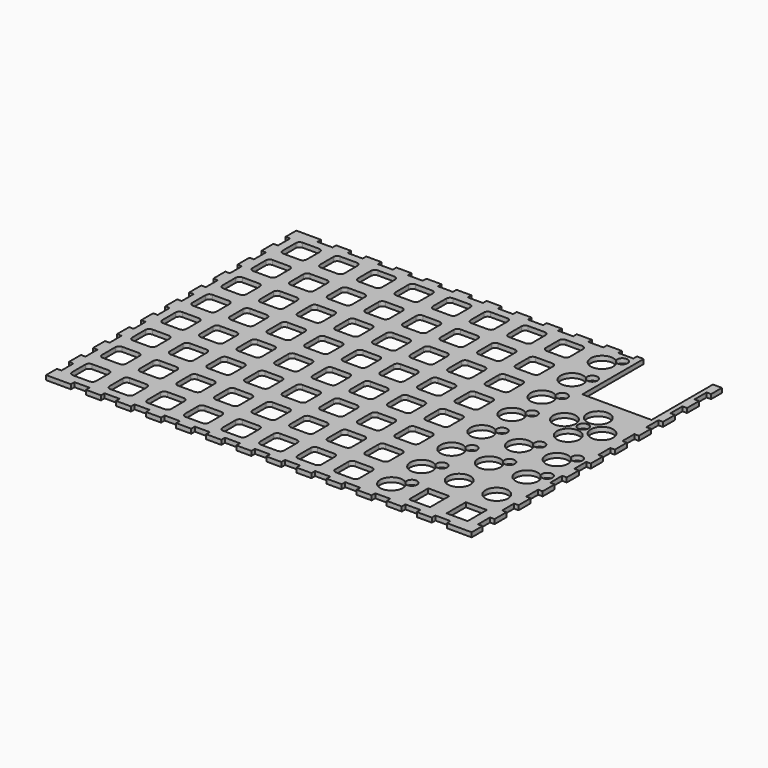
from build123d import *

# Parameters (mm, degrees)
CYLINDER008_R     = 7.5
CYLINDER008_DEPTH = 10
ARRAY010_COUNT    = 4
CYLINDER007_R     = 3.5
CYLINDER007_DEPTH = 10
BOX011_W          = 50
BOX011_H          = 50
BOX011_DEPTH      = 3
BOX022_W          = 10
BOX022_H          = 3
BOX022_DEPTH      = 10
ARRAY016_X_COUNT  = 13
ARRAY016_X_PITCH  = 20
BOX017_W          = 283
BOX017_H          = 4
BOX017_DEPTH      = 3
BOX024_W          = 10
BOX024_H          = 3
BOX024_DEPTH      = 3
ARRAY017_X_COUNT  = 11
ARRAY017_X_PITCH  = 20
BOX018_W          = 231
BOX018_H          = 4
BOX018_DEPTH      = 3
CYLINDER006_R     = 7.5
CYLINDER006_DEPTH = 10
BOX010_W          = 25
BOX010_H          = 25
BOX010_DEPTH      = 3
ARRAY009_X_COUNT  = 2
ARRAY009_X_PITCH  = 25
SKETCH002_W       = 25
SKETCH002_H       = 25
PAD001_DEPTH      = 3
ARRAY008_X_COUNT  = 8
ARRAY008_X_PITCH  = 25
ARRAY008_Y_COUNT  = 8
ARRAY008_Y_PITCH  = 25
CYLINDER010_R     = 7.5
CYLINDER010_DEPTH = 10
CYLINDER011_R     = 3.5
CYLINDER011_DEPTH = 10
BOX019_W          = 25
BOX019_H          = 25
BOX019_DEPTH      = 3
ARRAY012_Y_COUNT  = 8
ARRAY012_Y_PITCH  = 25
ARRAY013_X_COUNT  = 2
ARRAY013_X_PITCH  = 25
ARRAY013_Y_COUNT  = 2
ARRAY013_Y_PITCH  = 25
BOX021_W          = 3
BOX021_H          = 10
BOX021_DEPTH      = 10
ARRAY015_Y_COUNT  = 10
ARRAY015_Y_PITCH  = 20
BOX015_W          = 4
BOX015_H          = 200
BOX015_DEPTH      = 3
BOX020_W          = 14
BOX020_H          = 16
BOX020_DEPTH      = 10
BOX012_W          = 25
BOX012_H          = 25
BOX012_DEPTH      = 3
ARRAY014_X_COUNT  = 2
ARRAY014_X_PITCH  = 25
BOX023_W          = 6
BOX023_H          = 4
BOX023_DEPTH      = 3
BOX014_W          = 46
BOX014_H          = 47
BOX014_DEPTH      = 10
BOX013_W          = 50
BOX013_H          = 50
BOX013_DEPTH      = 3


with BuildPart() as array010:
    # Cylinder008 → Cylinder008 (new body)
    with BuildSketch(Plane(origin=(250, 112.5, 0), x_dir=(1, 0, 0), z_dir=(0, 0, 1))):
        Circle(CYLINDER008_R)
    extrude(amount=CYLINDER008_DEPTH)

    # Array010: Array010 ×4 about axis
    array010_axis = Axis((250, 125, 0), (0, 0, 1))


with BuildPart() as array010_1:
    add(array010.part)
    for i in range(1, ARRAY010_COUNT):
        add(array010.part.rotate(array010_axis, i * 360 / ARRAY010_COUNT))


with BuildPart() as cylinder007:
    # Cylinder007 → Cylinder007 (new body)
    with BuildSketch(Plane(origin=(250, 125, 0), x_dir=(1, 0, 0), z_dir=(0, 0, 1))):
        Circle(CYLINDER007_R)
    extrude(amount=CYLINDER007_DEPTH)


with BuildPart() as cut009:
    # Box011 → Box011 (new body)
    with BuildSketch(Plane(origin=(225, 100, 0), x_dir=(1, 0, 0), z_dir=(0, 0, 1))):
        with Locations((25, 25)):
            Rectangle(BOX011_W, BOX011_H)
    extrude(amount=BOX011_DEPTH)

    # Cut008: cut Cylinder007
    add(cylinder007.part, mode=Mode.SUBTRACT)

    # Cut009: cut Array010
    add(array010_1.part, mode=Mode.SUBTRACT)


with BuildPart() as array016:
    # Box022 → Box022 (new body)
    with BuildSketch(Plane(origin=(12.5, -4, 0), x_dir=(1, 0, 0), z_dir=(0, 0, 1))):
        with Locations((5, 1.5)):
            Rectangle(BOX022_W, BOX022_H)
    extrude(amount=BOX022_DEPTH)

    # Array016 X: Array016 ×13


with BuildPart() as array016_1:
    add(array016.part)
    with Locations(*[(i * ARRAY016_X_PITCH, 0, 0) for i in range(1, ARRAY016_X_COUNT)]):
        add(array016.part)


with BuildPart() as cut016:
    # Box017 → Box017 (new body)
    with BuildSketch(Plane(origin=(-4, -4, 0), x_dir=(1, 0, 0), z_dir=(0, 0, 1))):
        with Locations((141.5, 2)):
            Rectangle(BOX017_W, BOX017_H)
    extrude(amount=BOX017_DEPTH)

    # Cut016: cut Array016
    add(array016_1.part, mode=Mode.SUBTRACT)


with BuildPart() as array017:
    # Box024 → Box024 (new body)
    with BuildSketch(Plane(origin=(12.5, 201, 0), x_dir=(1, 0, 0), z_dir=(0, 0, 1))):
        with Locations((5, 1.5)):
            Rectangle(BOX024_W, BOX024_H)
    extrude(amount=BOX024_DEPTH)

    # Array017 X: Array017 ×11


with BuildPart() as array017_1:
    add(array017.part)
    with Locations(*[(i * ARRAY017_X_PITCH, 0, 0) for i in range(1, ARRAY017_X_COUNT)]):
        add(array017.part)


with BuildPart() as cut017:
    # Box018 → Box018 (new body)
    with BuildSketch(Plane(origin=(-4, 200, 0), x_dir=(1, 0, 0), z_dir=(0, 0, 1))):
        with Locations((115.5, 2)):
            Rectangle(BOX018_W, BOX018_H)
    extrude(amount=BOX018_DEPTH)

    # Cut017: cut Array017
    add(array017_1.part, mode=Mode.SUBTRACT)


with BuildPart() as cylinder006:
    # Cylinder006 → Cylinder006 (new body)
    with BuildSketch(Plane(origin=(237.5, 37.5, 0), x_dir=(1, 0, 0), z_dir=(0, 0, 1))):
        Circle(CYLINDER006_R)
    extrude(amount=CYLINDER006_DEPTH)


with BuildPart() as array009:
    # Box010 → Box010 (new body)
    with BuildSketch(Plane(origin=(225, 25, 0), x_dir=(1, 0, 0), z_dir=(0, 0, 1))):
        with Locations((12.5, 12.5)):
            Rectangle(BOX010_W, BOX010_H)
    extrude(amount=BOX010_DEPTH)

    # Cut007: cut Cylinder006
    add(cylinder006.part, mode=Mode.SUBTRACT)

    # Array009 X: Array009 ×2


with BuildPart() as array009_1:
    add(array009.part)
    with Locations(*[(i * ARRAY009_X_PITCH, 0, 0) for i in range(1, ARRAY009_X_COUNT)]):
        add(array009.part)


with BuildPart() as clone_of_array009:
    # Clone009 base: copy of Array009
    add(array009_1.part)


with BuildPart() as fusion012:
    # Fusion012 base: copy of Array009
    add(array009_1.part)

    # Fusion012: union Clone of Array009
    add(clone_of_array009.part)


with BuildPart() as array008:
    # Sketch002 → Pad001 (new body)
    with BuildSketch(Plane.XY):
        with Locations((12.5, 12.5)):
            Rectangle(SKETCH002_W, SKETCH002_H)
        with BuildLine():
            Line((4.5, 18), (4.5, 7))
            ThreePointArc((4.5, 7), (5.232233, 5.232233), (7, 4.5))
            Line((7, 4.5), (18, 4.5))
            ThreePointArc((18, 4.5), (19.767767, 5.232233), (20.5, 7))
            Line((20.5, 18), (20.5, 7))
            ThreePointArc((20.5, 18), (19.767767, 19.767767), (18, 20.5))
            Line((18, 20.5), (7, 20.5))
            ThreePointArc((7, 20.5), (5.232233, 19.767767), (4.5, 18))
        make_face(mode=Mode.SUBTRACT)
    extrude(amount=PAD001_DEPTH)

    # Array008 X: Array008 ×8


with BuildPart() as array008_1:
    add(array008.part)
    with Locations(*[(i * ARRAY008_X_PITCH, 0, 0) for i in range(1, ARRAY008_X_COUNT)]):
        add(array008.part)

    # Array008 Y: Array008 ×8


with BuildPart() as array008_2:
    add(array008_1.part)
    with Locations(*[(0, i * ARRAY008_Y_PITCH, 0) for i in range(1, ARRAY008_Y_COUNT)]):
        add(array008_1.part)


with BuildPart() as clone_of_array008:
    # Clone008 base: copy of Array008
    add(array008_2.part)


with BuildPart() as fusion011:
    # Fusion011 base: copy of Array008
    add(array008_2.part)

    # Fusion011: union Clone of Array008
    add(clone_of_array008.part)


with BuildPart() as cylinder010:
    # Cylinder010 → Cylinder010 (new body)
    with BuildSketch(Plane(origin=(212.5, 12.5, -5), x_dir=(1, 0, 0), z_dir=(0, 0, 1))):
        Circle(CYLINDER010_R)
    extrude(amount=CYLINDER010_DEPTH)


with BuildPart() as cylinder011:
    # Cylinder011 → Cylinder011 (new body)
    with BuildSketch(Plane(origin=(220, 20, -5), x_dir=(1, 0, 0), z_dir=(0, 0, 1))):
        Circle(CYLINDER011_R)
    extrude(amount=CYLINDER011_DEPTH)


with BuildPart() as cut013:
    # Box019 → Box019 (new body)
    with BuildSketch(Plane(origin=(200, 0, 0), x_dir=(1, 0, 0), z_dir=(0, 0, 1))):
        with Locations((12.5, 12.5)):
            Rectangle(BOX019_W, BOX019_H)
    extrude(amount=BOX019_DEPTH)

    # Cut012: cut Cylinder011
    add(cylinder011.part, mode=Mode.SUBTRACT)

    # Cut013: cut Cylinder010
    add(cylinder010.part, mode=Mode.SUBTRACT)


with BuildPart() as array012:
    # Array012 base: copy of Cut013
    add(cut013.part)

    # Array012 Y: Array012 ×8


with BuildPart() as array012_1:
    add(array012.part)
    with Locations(*[(0, i * ARRAY012_Y_PITCH, 0) for i in range(1, ARRAY012_Y_COUNT)]):
        add(array012.part)


with BuildPart() as clone_of_array011:
    # Clone012 base: copy of Array012
    add(array012_1.part)


with BuildPart() as array013:
    # Clone011 base: copy of Cut013
    add(cut013.part)


with BuildPart() as array013_1:
    # Clone011 placement: moved
    add(array013.part.moved(Location((25, 50, 0))))

    # Array013 X: Array013 ×2


with BuildPart() as array013_2:
    add(array013_1.part)
    with Locations(*[(i * ARRAY013_X_PITCH, 0, 0) for i in range(1, ARRAY013_X_COUNT)]):
        add(array013_1.part)

    # Array013 Y: Array013 ×2


with BuildPart() as array013_3:
    add(array013_2.part)
    with Locations(*[(0, i * ARRAY013_Y_PITCH, 0) for i in range(1, ARRAY013_Y_COUNT)]):
        add(array013_2.part)


with BuildPart() as clone_of_array012:
    # Clone013 base: copy of Array013
    add(array013_3.part)


with BuildPart() as fusion014:
    # Fusion014 base: copy of Array012
    add(array012_1.part)

    # Fusion014: union Clone of Array011, Array013, Clone of Array012
    add(clone_of_array011.part)
    add(array013_3.part)
    add(clone_of_array012.part)


with BuildPart() as array015:
    # Box021 → Box021 (new body)
    with BuildSketch(Plane(origin=(-4, 5, 0), x_dir=(1, 0, 0), z_dir=(0, 0, 1))):
        with Locations((1.5, 5)):
            Rectangle(BOX021_W, BOX021_H)
    extrude(amount=BOX021_DEPTH)

    # Array015 Y: Array015 ×10


with BuildPart() as array015_1:
    add(array015.part)
    with Locations(*[(0, i * ARRAY015_Y_PITCH, 0) for i in range(1, ARRAY015_Y_COUNT)]):
        add(array015.part)


with BuildPart() as cut015:
    # Box015 → Box015 (new body)
    with BuildSketch(Plane(origin=(-4, 0, 0), x_dir=(1, 0, 0), z_dir=(0, 0, 1))):
        with Locations((2, 100)):
            Rectangle(BOX015_W, BOX015_H)
    extrude(amount=BOX015_DEPTH)

    # Cut015: cut Array015
    add(array015_1.part, mode=Mode.SUBTRACT)


with BuildPart() as mirror_of_cut015:
    # mirror: instance of Cut015
    add(cut015.part.mirror(Plane(origin=(0, 0, 0), x_dir=(0, -1, 0), z_dir=(1, 0, 0))))


with BuildPart() as mirror_of_cut015_1:
    # mirror placement: moved
    add(mirror_of_cut015.part.moved(Location((275, 0, 0))))


with BuildPart() as cube020:
    # Box020 → Box020 (new body)
    with BuildSketch(Plane(origin=(230.5, 4.5, 0), x_dir=(1, 0, 0), z_dir=(0, 0, 1))):
        with Locations((7, 8)):
            Rectangle(BOX020_W, BOX020_H)
    extrude(amount=BOX020_DEPTH)


with BuildPart() as array014:
    # Box012 → Box012 (new body)
    with BuildSketch(Plane(origin=(225, 0, 0), x_dir=(1, 0, 0), z_dir=(0, 0, 1))):
        with Locations((12.5, 12.5)):
            Rectangle(BOX012_W, BOX012_H)
    extrude(amount=BOX012_DEPTH)

    # Cut014: cut Cube020
    add(cube020.part, mode=Mode.SUBTRACT)

    # Array014 X: Array014 ×2


with BuildPart() as array014_1:
    add(array014.part)
    with Locations(*[(i * ARRAY014_X_PITCH, 0, 0) for i in range(1, ARRAY014_X_COUNT)]):
        add(array014.part)


with BuildPart() as clone_of_array014:
    # Clone014 base: copy of Array014
    add(array014_1.part)


with BuildPart() as fusion015:
    # Fusion015 base: copy of Array014
    add(array014_1.part)

    # Fusion015: union Clone of Array014
    add(clone_of_array014.part)


with BuildPart() as cube023:
    # Box023 → Box023 (new body)
    with BuildSketch(Plane(origin=(273, 200, 0), x_dir=(1, 0, 0), z_dir=(0, 0, 1))):
        with Locations((3, 2)):
            Rectangle(BOX023_W, BOX023_H)
    extrude(amount=BOX023_DEPTH)


with BuildPart() as cube014:
    # Box014 → Box014 (new body)
    with BuildSketch(Plane(origin=(227, 153, 0), x_dir=(1, 0, 0), z_dir=(0, 0, 1))):
        with Locations((23, 23.5)):
            Rectangle(BOX014_W, BOX014_H)
    extrude(amount=BOX014_DEPTH)


with BuildPart() as lowertoppanel:
    # Box013 → Box013 (new body)
    with BuildSketch(Plane(origin=(225, 150, 0), x_dir=(1, 0, 0), z_dir=(0, 0, 1))):
        with Locations((25, 25)):
            Rectangle(BOX013_W, BOX013_H)
    extrude(amount=BOX013_DEPTH)

    # Cut011: cut Cube014
    add(cube014.part, mode=Mode.SUBTRACT)

    # Fusion016: union Cut009, Cut016, Cut017, Fusion012, Fusion011, Fusion014, Mirror of Cut015, Fusion015, Cube023, Cut015
    add(cut009.part)
    add(cut016.part)
    add(cut017.part)
    add(fusion012.part)
    add(fusion011.part)
    add(fusion014.part)
    add(mirror_of_cut015_1.part)
    add(fusion015.part)
    add(cube023.part)
    add(cut015.part)


with BuildPart() as lowertoppanel_1:
    # refine001 placement: moved
    add(lowertoppanel.part.moved(Location((0, -200, 5.8))))


solid = lowertoppanel_1.part
